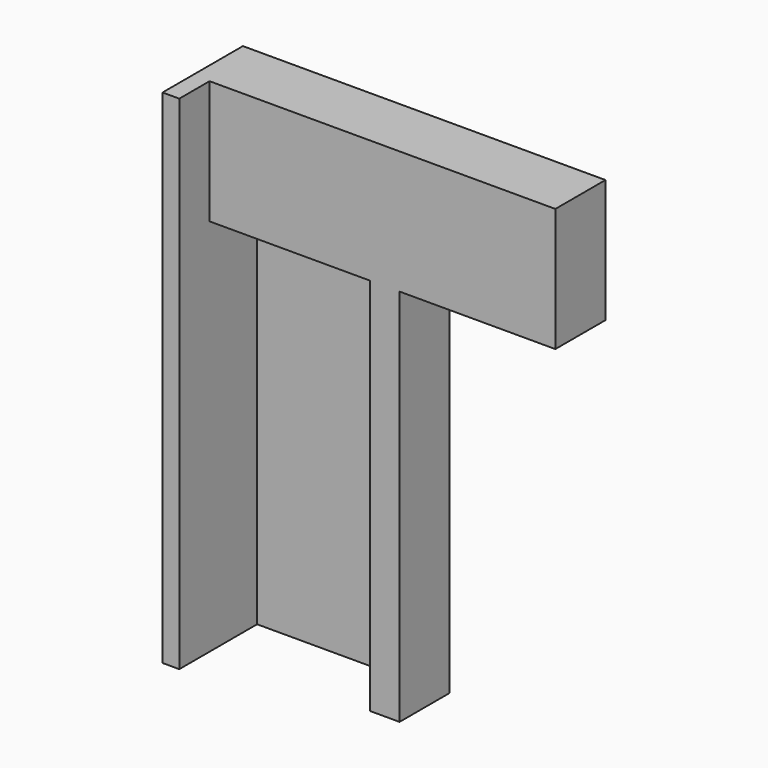
from build123d import *

# Parameters (mm, degrees)
F1_DEPTH = 600
F2_W     = 2065.5151176453
F2_H     = 225.8841454983
F3_DEPTH = 4000
F4_W     = 958
F4_H     = 2263
F5_DEPTH = 355
F6_R     = 65
F7_DEPTH = 22


with BuildPart() as f1:
    # F0 (on Front) → F1 (new body)
    with BuildSketch(Plane.XZ):
        Polygon((-617.5, 3000), (-617.5, 0), (617.5, 0), (617.5, 2263), (1548.0151176453, 2263), (1548.0151176453, 3000), align=None)
    extrude(amount=F1_DEPTH)

    # F2 (on face) → F3 (cut)
    with BuildSketch(Plane.XY.offset(3000)):
        with Locations((515.2575588226, -487.0579272509)):
            Rectangle(F2_W, F2_H)
    extrude(amount=-F3_DEPTH, mode=Mode.SUBTRACT)

    # F4 (on face) → F5 (cut)
    with BuildSketch(Plane.XZ.offset(374.1158545017)):
        with Locations((-38.5, 1131.5)):
            Rectangle(F4_W, F4_H)
    extrude(amount=-F5_DEPTH, mode=Mode.SUBTRACT)

    # F6 (on face) → F7 (join)
    with BuildSketch(Plane(origin=(0, 0, 2263), x_dir=(1, 0, 0), z_dir=(0, 0, -1))):
        with Locations((-48.5, 224.1158545017)):
            Circle(F6_R)
    extrude(amount=F7_DEPTH)


solid = f1.part
